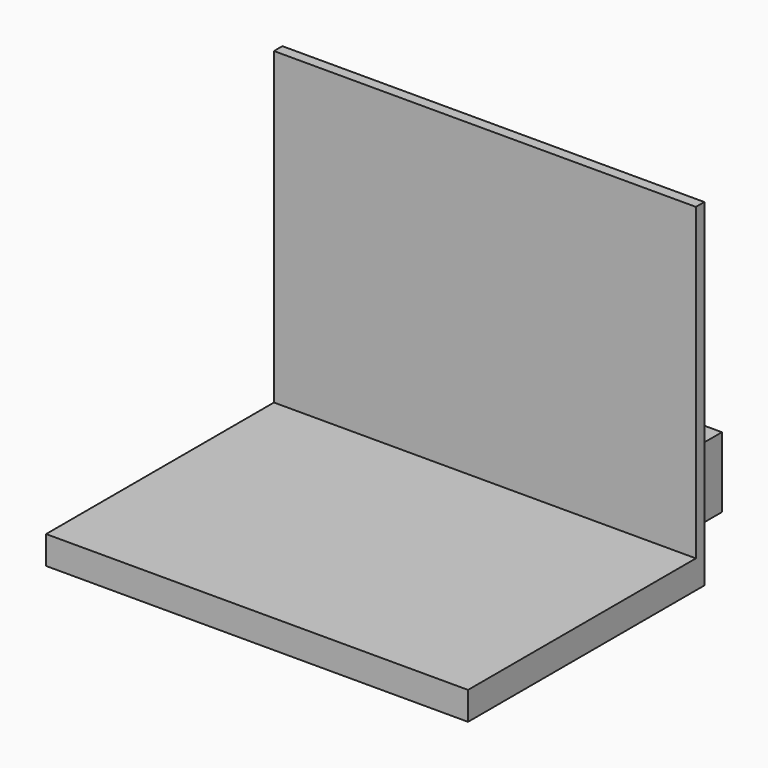
from build123d import *

# Parameters (mm, degrees)
F1_DEPTH = 190.5
F2_W     = 260.35
F2_H     = 63.5
F3_DEPTH = 95.25
F4_W     = 31.75
F4_H     = 9.525
F4_R     = 3.175
F5_DEPTH = 76.2


with BuildPart() as f1:
    # F0 (on Right) → F1 (new body, symmetric)
    with BuildSketch(Plane.YZ):
        Polygon((-266.7, 25.4), (-266.7, 0), (0, 0), (0, 304.8), (-9.525, 304.8), (-9.525, 25.4), align=None)
    extrude(amount=F1_DEPTH, both=True)

    # F2 (on face) → F3 (join)
    with BuildSketch(Plane(origin=(0, 0, 0), x_dir=(-1, 0, 0), z_dir=(0, 1, 0))):
        with Locations((0, 31.75)):
            Rectangle(F2_W, F2_H)
    extrude(amount=F3_DEPTH)

    # F4 (on face) → F5 (join)
    with BuildSketch(Plane(origin=(0, 95.25, 0), x_dir=(-1, 0, 0), z_dir=(0, 1, 0))):
        with Locations((15.875, 14.2875)):
            Rectangle(F4_W, F4_H)
        with Locations((73.025, 14.2875)):
            Rectangle(F4_W, F4_H)
        with Locations((15.875, 33.3375)):
            Rectangle(F4_W, F4_H)
        with Locations((44.45, 14.2875)):
            Circle(F4_R)
    extrude(amount=F5_DEPTH)


solid = f1.part
